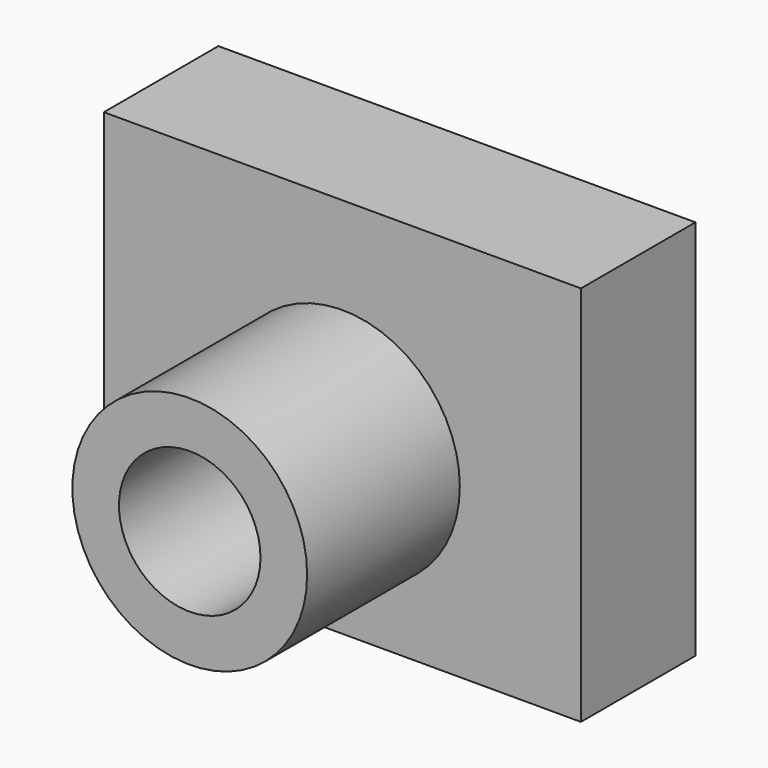
from build123d import *

# Parameters (mm, degrees)
F0_W     = 127
F0_H     = 101.6
F1_DEPTH = 38.1
F2_R     = 31.253705
F3_DEPTH = 50.8
F4_R     = 18.835615
F5_DEPTH = 88.901


with BuildPart() as f1:
    # F0 (on Front) → F1 (new body)
    with BuildSketch(Plane.XZ):
        Rectangle(F0_W, F0_H)
    extrude(amount=F1_DEPTH)

    # F2 (on face) → F3 (join)
    with BuildSketch(Plane.XZ.offset(38.1)):
        with Locations((0, -6.159689)):
            Circle(F2_R)
    extrude(amount=F3_DEPTH)

    # F4 (on face) → F5 (cut, through all)
    with BuildSketch(Plane.XZ.offset(88.9)):
        with Locations((0, -6.159689)):
            Circle(F4_R)
    extrude(amount=-F5_DEPTH, mode=Mode.SUBTRACT)


solid = f1.part
